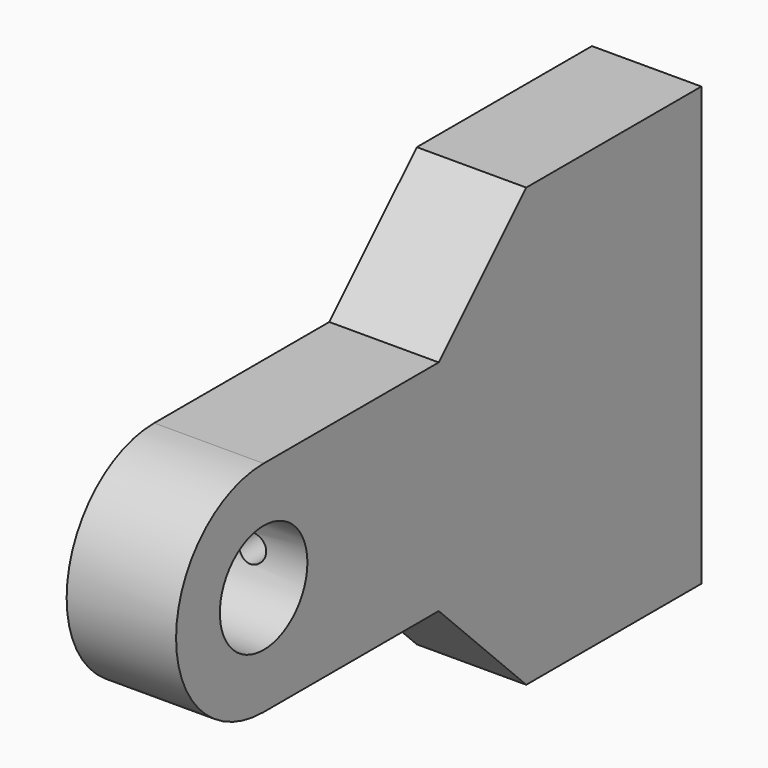
from build123d import *

# Parameters (mm, degrees)
F0_R     = 12.7
F1_DEPTH = 25.4
F5_D     = 6.35
F5_DEPTH = 12.7
F5_TIP   = 1.9077324654
F7_D     = 6.35
F7_DEPTH = 127
F7_START = 6.3500001
F7_TIP   = 1.9077324654


with BuildPart() as f1:
    # F0 (on Right) → F1 (new body)
    with BuildSketch(Plane.YZ):
        with BuildLine():
            Line((50.8, 50.8), (0, 50.8))
            ThreePointArc((0, 50.8), (-25.4, 25.4), (0, 0))
            Line((0, 0), (50.8, 0))
            Line((50.8, 0), (76.2, -25.4))
            Line((76.2, -25.4), (127, -25.4))
            Line((127, -25.4), (127, 76.2))
            Line((127, 76.2), (76.2, 76.2))
            Line((76.2, 76.2), (50.8, 50.8))
        make_face()
        with Locations((0, 25.4)):
            Circle(F0_R, mode=Mode.SUBTRACT)
    extrude(amount=F1_DEPTH)

    # F2 (on face) → F3 (revolve, cut)
    with BuildSketch(Plane(origin=(0, 127, 0), x_dir=(-1, 0, 0), z_dir=(0, 1, 0))):
        with BuildLine():
            ThreePointArc((-12.7, 50.8), (-17.1901280605, 48.9401280605), (-19.05, 44.45))
            Line((-19.05, 44.45), (-19.05, 6.35))
            ThreePointArc((-19.05, 6.35), (-17.1901280605, 1.8598719395), (-12.7, 0))
            Line((-12.7, 0), (-12.7, 50.8))
        make_face()
    revolve(axis=Axis((12.7, 127, 25.4), (0, 0, -1)), mode=Mode.SUBTRACT)

    # F5
    with Locations(Plane(origin=(0, 127, 0), x_dir=(-1, 0, 0), z_dir=(0, 1, 0))):
        with Locations((-12.7, 63.5), (-12.7, -12.7)):
            Hole(F5_D / 2, depth=F5_DEPTH)
            with Locations((0, 0, -(F5_DEPTH + F5_TIP / 2))):  # 118° drill point
                Cone(0, F5_D / 2, F5_TIP, mode=Mode.SUBTRACT)

    # F7
    # its depths count from where the whole tool has entered the part; down to there all is cleared
    with Locations(Plane(origin=(0, 127, 0), x_dir=(-1, 0, 0), z_dir=(0, 1, 0)).offset(-F7_START)):
        with Locations((-12.7, 24.4230292737)):
            Hole(F7_D / 2, depth=F7_DEPTH)
            with Locations((0, 0, -(F7_DEPTH + F7_TIP / 2))):  # 118° drill point
                Cone(0, F7_D / 2, F7_TIP, mode=Mode.SUBTRACT)


solid = f1.part
